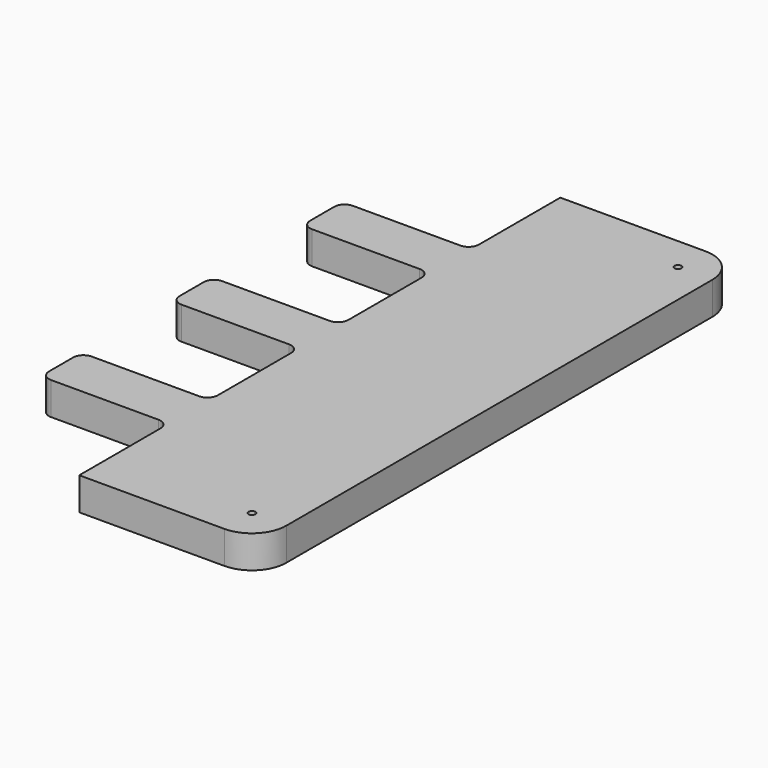
from build123d import *

# Parameters (mm, degrees)
PAD014_DEPTH    = 19
FILLET002_R     = 20
FILLET003_R     = 6
SKETCH029_R     = 2
POCKET019_DEPTH = 19.001


with BuildPart() as part:
    # Sketch017 → Pad014 (new body)
    with BuildSketch(Plane.XY):
        Polygon((275, 216.2), (379.498932, 216.2), (379.498932, -133.8), (275, -133.8), (275, -68.6), (200.4, -68.6), (200.4, -39), (275, -39), (275, 26.4), (200.4, 26.4), (200.4, 56), (275, 56), (275, 121.4), (200.4, 121.4), (200.4, 151), (275, 151), align=None)
    extrude(amount=-PAD014_DEPTH)

    # Fillet002
    fillet002_edges = [part.edges().sort_by_distance(p)[0] for p in [
        (379.498932, 216.2, -9.5),
        (379.498932, -133.8, -9.5),
    ]]
    fillet(fillet002_edges, radius=FILLET002_R)

    # Fillet003
    fillet003_edges = [part.edges().sort_by_distance(p)[0] for p in [
        (200.4, 151, -9.5),
        (200.4, 121.4, -9.5),
        (200.4, 26.4, -9.5),
        (200.4, 56, -9.5),
        (200.4, -39, -9.5),
        (200.4, -68.6, -9.5),
        (275, 151, -9.5),
        (275, 121.4, -9.5),
        (275, 26.4, -9.5),
        (275, -68.6, -9.5),
        (275, -39, -9.5),
        (275, 56, -9.5),
    ]]
    fillet(fillet003_edges, radius=FILLET003_R)

    # Sketch029 (on Face32 of Fillet003) → Pocket019 (cut, through all)
    with BuildSketch(Plane(origin=(0, 0, -19), x_dir=(1, 0, 0), z_dir=(0, 0, -1))):
        with Locations((359.498932, 113.8)):
            Circle(SKETCH029_R)
        with Locations((359.498932, -196.2)):
            Circle(SKETCH029_R)
    extrude(amount=-POCKET019_DEPTH, mode=Mode.SUBTRACT)


with BuildPart() as part_1:
    # Body010 placement: moved
    add(part.part.moved(Location((0, 0, -9))))


solid = part_1.part
